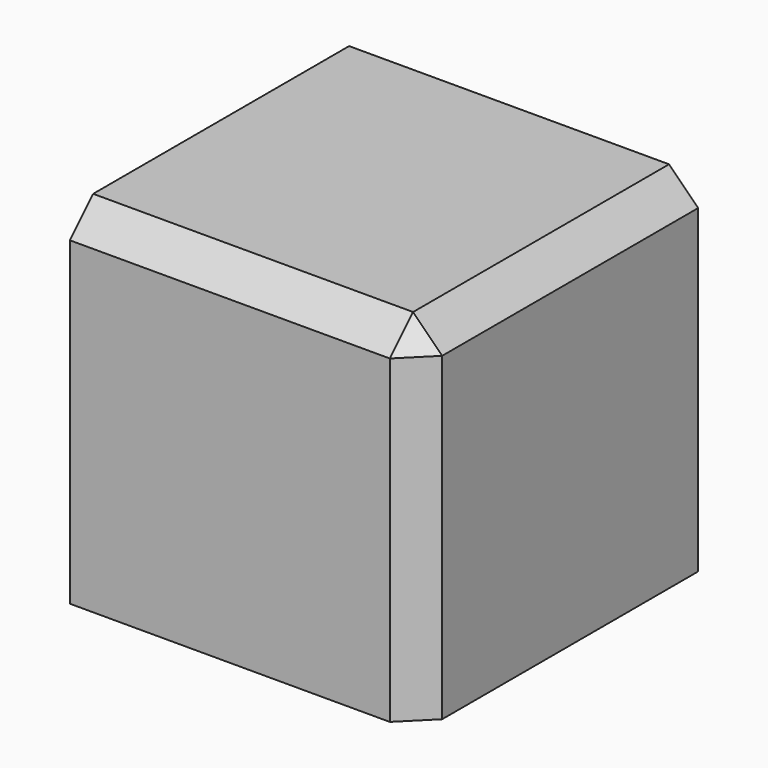
from build123d import *

# Parameters (mm, degrees)
F0_W     = 60
F0_H     = 60
F1_DEPTH = 60
F2_SIZE  = 5


with BuildPart() as f1:
    # F0 (on Front) → F1 (new body)
    with BuildSketch(Plane.XZ):
        with Locations((30, -30)):
            Rectangle(F0_W, F0_H)
    extrude(amount=F1_DEPTH)

    # F2
    f2_edges = [f1.edges().sort_by_distance(p)[0] for p in [
        (60, -60, -30),
        (30, -60, 0),
        (60, -30, 0),
    ]]
    chamfer(f2_edges, length=F2_SIZE)


solid = f1.part
